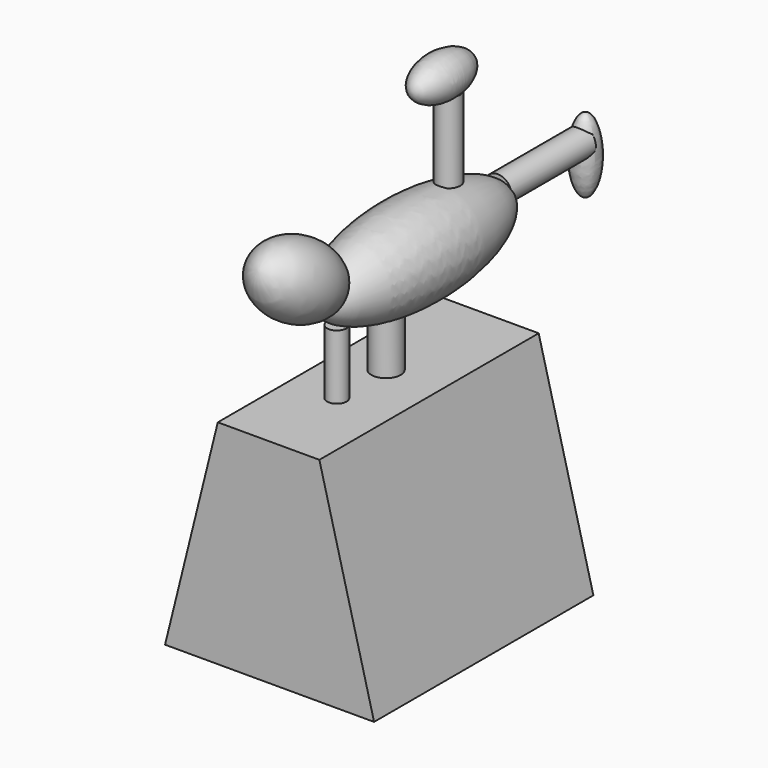
from build123d import *

# Parameters (mm, degrees)
F1_DEPTH = 25.4
F2_DEPTH = 25.4
F7_W     = 1.810179092
F7_H     = 11.9471950457
F9_W     = 19.5499528199
F9_H     = 2.5342516601
F11_W    = 2.7134327684
F11_H    = 9.596105665
F13_W    = 2.168933861
F13_H    = 14.8452538997


with BuildPart() as f1:
    # F0 (on Front) → F1 (new body)
    with BuildSketch(Plane.XZ):
        Polygon((-8.6888698861, 0), (-18.4638462961, -39.4619479775), (20.2740263194, -39.4619479775), (10.1370131597, 0), align=None)
    extrude(amount=F1_DEPTH)

    # F0 (on Front) → F2 (join)
    with BuildSketch(Plane.XZ):
        Polygon((-8.6888698861, 0), (-18.4638462961, -39.4619479775), (20.2740263194, -39.4619479775), (10.1370131597, 0), align=None)
    extrude(amount=-F2_DEPTH)


with BuildPart() as f4:
    # F3 (on Right) → F4 (revolve)
    with BuildSketch(Plane.YZ):
        with BuildLine():
            Line((-13.3953411132, 17.0157011598), (30.7730790228, 17.0157011598))
            add(Edge.make_bspline(
                [(30.7730790228, 17.0157011598), (30.7730790228, 25.2843717286), (8.6888689548, 25.2843717286), (-13.3953411132, 25.2843717286), (-13.3953411132, 17.0157011598)],
                knots=[0, 0, 0, 1.5707963268, 1.5707963268, 3.1415926536, 3.1415926536, 3.1415926536], degree=2, weights=[1, 0.7071067812, 1, 0.7071067812, 1]))
        make_face()
    revolve(axis=Axis((0, 8.6888689548, 17.0157011598), (0, 1, 0)))

    # F5 (on Right) → F6 (revolve)
    with BuildSketch(Plane.YZ):
        with BuildLine():
            Line((-26.7906785011, 28.2388273627), (-9.4129405916, 18.1018095464))
            add(Edge.make_bspline(
                [(-9.4129405916, 18.1018095464), (-6.126478059, 23.7357430735), (-14.8153470138, 28.8042519817), (-23.5042159686, 33.8727608898), (-26.7906785011, 28.2388273627)],
                knots=[0, 0, 0, 1.5707963268, 1.5707963268, 3.1415926536, 3.1415926536, 3.1415926536], degree=2, weights=[1, 0.7071067812, 1, 0.7071067812, 1]))
        make_face()
    revolve(axis=Axis((0, -18.1018095464, 23.1703184545), (0, -0.8637788136, 0.5038711752)))

    # F9 (on Right) → F10 (revolve)
    with BuildSketch(Plane.YZ):
        with Locations((38.3758386597, 20.0930107385)):
            Rectangle(F9_W, F9_H)
    revolve(axis=Axis((0, 38.3758386597, 18.8258849084), (0, 1, 0)))

    # F13 (on Right) → F14 (revolve)
    with BuildSketch(Plane.YZ):
        with Locations((16.1031601019, 32.2260661051)):
            Rectangle(F13_W, F13_H)
    revolve(axis=Axis((0, 17.1876270324, 32.2260661051), (0, 0, 1)))

    # F15 (on Right) → F16 (revolve)
    with BuildSketch(Plane.YZ):
        with BuildLine():
            add(Edge.make_bspline(
                [(48.8748885691, 9.4129405916), (51.4295640147, 9.4129405916), (51.4295640147, 16.291629523), (51.4295640147, 23.1703184545), (48.8748885691, 23.1703184545)],
                knots=[3.1415926536, 3.1415926536, 3.1415926536, 4.7123889804, 4.7123889804, 6.2831853072, 6.2831853072, 6.2831853072], degree=2, weights=[1, 0.7071067812, 1, 0.7071067812, 1]))
            Line((48.8748885691, 23.1703184545), (48.8748885691, 9.4129405916))
        make_face()
    revolve(axis=Axis((0, 48.8748885691, 16.291629523), (0, 0, 1)))

    # F17 (on Right) → F18 (revolve)
    with BuildSketch(Plane.YZ):
        with BuildLine():
            Line((8.6888689548, 42.7202731371), (22.4462468177, 42.7202731371))
            add(Edge.make_bspline(
                [(22.4462468177, 42.7202731371), (22.4462468177, 46.4688042431), (15.5675578862, 46.4688042431), (8.6888689548, 46.4688042431), (8.6888689548, 42.7202731371)],
                knots=[0, 0, 0, 1.5707963268, 1.5707963268, 3.1415926536, 3.1415926536, 3.1415926536], degree=2, weights=[1, 0.7071067812, 1, 0.7071067812, 1]))
        make_face()
    revolve(axis=Axis((0, 15.5675578862, 42.7202731371), (0, 1, 0)))


with BuildPart() as f8:
    # F7 (on Right) → F8 (revolve)
    with BuildSketch(Plane.YZ):
        with Locations((-9.5939594321, 5.9735975228)):
            Rectangle(F7_W, F7_H)
    revolve(axis=Axis((0, -8.6888698861, 5.9735975228), (0, 0, -1)))


with BuildPart() as f12:
    # F11 (on Right) → F12 (revolve)
    with BuildSketch(Plane.YZ):
        with Locations((1.3567163842, 4.7980528325)):
            Rectangle(F11_W, F11_H)
    revolve(axis=Axis((0, 2.7134327684, 4.7980528325), (0, 0, -1)))


solid = Compound([f1.part, f4.part, f8.part, f12.part])
